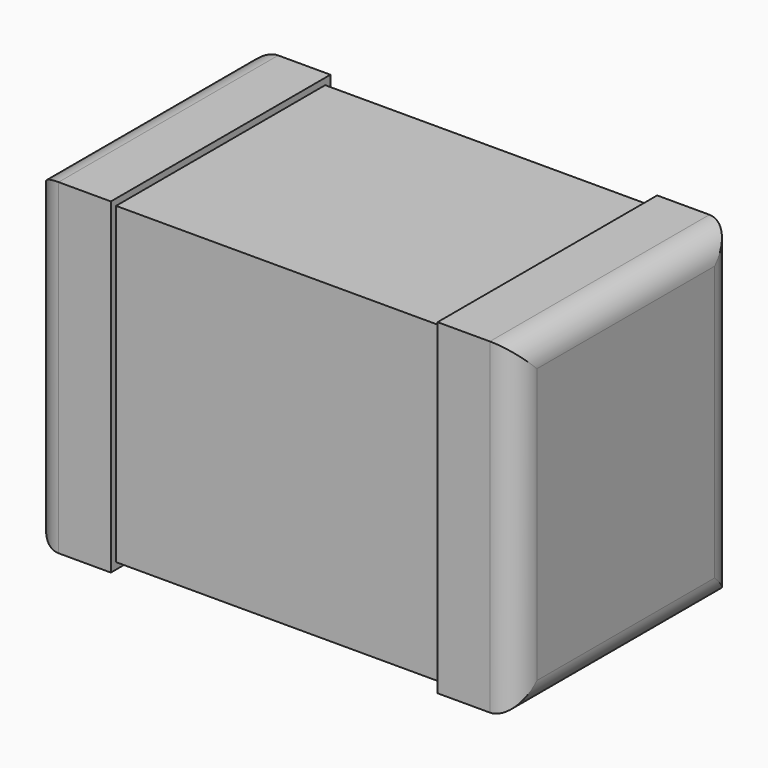
from build123d import *

# Parameters (mm, degrees)
SKETCH001_W      = 1.3
SKETCH001_H      = 1
EXTRUDE001_DEPTH = 1.2
SKETCH_W         = 0.3
SKETCH_H         = 1.05
EXTRUDE_DEPTH    = 1.25
FILLET_R         = 0.1


with BuildPart() as obj1:
    # Sketch001 → Extrude001 (new body)
    with BuildSketch(Plane.XY.offset(0.025)):
        Rectangle(SKETCH001_W, SKETCH001_H)
    extrude(amount=EXTRUDE001_DEPTH)


with BuildPart() as fillet_body:
    # Sketch → Extrude (new body)
    with BuildSketch(Plane.XY):
        with Locations((-0.775, 0)):
            Rectangle(SKETCH_W, SKETCH_H)
        with Locations((0.775, 0)):
            Rectangle(SKETCH_W, SKETCH_H)
    extrude(amount=EXTRUDE_DEPTH)

    # Fillet
    fillet_edges = [fillet_body.edges().sort_by_distance(p)[0] for p in [
        (0.925, 0.525, 0.625),
        (0.925, -0.525, 0.625),
        (0.925, 0, 0),
        (0.925, 0, 1.25),
        (-0.925, 0.525, 0.625),
        (-0.925, -0.525, 0.625),
        (-0.925, 0, 0),
        (-0.925, 0, 1.25),
    ]]
    fillet(fillet_edges, radius=FILLET_R)


solid = Compound([obj1.part, fillet_body.part])
